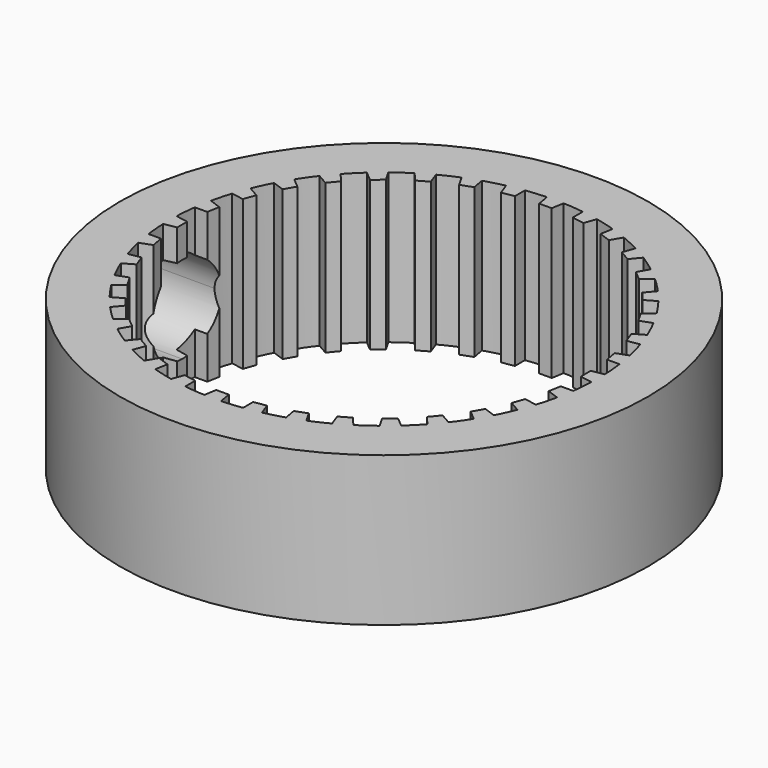
from build123d import *

# Parameters (mm, degrees)
F0_R     = 10.6
F1_DEPTH = 6
F3_DEPTH = 25


with BuildPart() as f1:
    # F0 (on Top) → F1 (new body)
    with BuildSketch(Plane.XY):
        Circle(F0_R)
        with BuildLine():
            ThreePointArc((8.593395, 0.336999), (8.598349, 0.168532), (8.6, 0))
            ThreePointArc((8.6, 0), (8.598349, -0.168532), (8.593395, -0.336999))
            ThreePointArc((8.593395, -0.336999), (8.567274, -0.749539), (8.521361, -1.160348))
            ThreePointArc((8.521361, -1.160348), (8.469347, -1.493374), (8.404322, -1.824106))
            ThreePointArc((8.404322, -1.824106), (8.306962, -2.225844), (8.19041, -2.622439))
            ThreePointArc((8.19041, -2.622439), (8.081357, -2.941373), (7.959889, -3.255789))
            ThreePointArc((7.959889, -3.255789), (7.794247, -3.634517), (7.610597, -4.004848))
            ThreePointArc((7.610597, -4.004848), (7.447818, -4.3), (7.273599, -4.588547))
            ThreePointArc((7.273599, -4.588547), (7.044708, -4.932757), (6.799541, -5.265572))
            ThreePointArc((6.799541, -5.265572), (6.587982, -5.527973), (6.366304, -5.781884))
            ThreePointArc((6.366304, -5.781884), (6.081118, -6.081118), (5.781884, -6.366304))
            ThreePointArc((5.781884, -6.366304), (5.527973, -6.587982), (5.265572, -6.799541))
            ThreePointArc((5.265572, -6.799541), (4.932757, -7.044708), (4.588547, -7.273599))
            ThreePointArc((4.588547, -7.273599), (4.3, -7.447818), (4.004848, -7.610597))
            ThreePointArc((4.004848, -7.610597), (3.634517, -7.794247), (3.255789, -7.959889))
            ThreePointArc((3.255789, -7.959889), (2.941373, -8.081357), (2.622439, -8.19041))
            ThreePointArc((2.622439, -8.19041), (2.225844, -8.306962), (1.824106, -8.404322))
            ThreePointArc((1.824106, -8.404322), (1.493374, -8.469347), (1.160348, -8.521361))
            ThreePointArc((1.160348, -8.521361), (0.749539, -8.567274), (0.336999, -8.593395))
            ThreePointArc((0.336999, -8.593395), (0, -8.6), (-0.336999, -8.593395))
            ThreePointArc((-0.336999, -8.593395), (-0.749539, -8.567274), (-1.160348, -8.521361))
            ThreePointArc((-1.160348, -8.521361), (-1.493374, -8.469347), (-1.824106, -8.404322))
            ThreePointArc((-1.824106, -8.404322), (-2.225844, -8.306962), (-2.622439, -8.19041))
            ThreePointArc((-2.622439, -8.19041), (-2.941373, -8.081357), (-3.255789, -7.959889))
            ThreePointArc((-3.255789, -7.959889), (-3.634517, -7.794247), (-4.004848, -7.610597))
            ThreePointArc((-4.004848, -7.610597), (-4.3, -7.447818), (-4.588547, -7.273599))
            ThreePointArc((-4.588547, -7.273599), (-4.932757, -7.044708), (-5.265572, -6.799541))
            ThreePointArc((-5.265572, -6.799541), (-5.527973, -6.587982), (-5.781884, -6.366304))
            ThreePointArc((-5.781884, -6.366304), (-6.081118, -6.081118), (-6.366304, -5.781884))
            ThreePointArc((-6.366304, -5.781884), (-6.587982, -5.527973), (-6.799541, -5.265572))
            ThreePointArc((-6.799541, -5.265572), (-7.044708, -4.932757), (-7.273599, -4.588547))
            ThreePointArc((-7.273599, -4.588547), (-7.447818, -4.3), (-7.610597, -4.004848))
            ThreePointArc((-7.610597, -4.004848), (-7.794247, -3.634517), (-7.959889, -3.255789))
            ThreePointArc((-7.959889, -3.255789), (-8.081357, -2.941373), (-8.19041, -2.622439))
            ThreePointArc((-8.19041, -2.622439), (-8.306962, -2.225844), (-8.404322, -1.824106))
            ThreePointArc((-8.404322, -1.824106), (-8.469347, -1.493374), (-8.521361, -1.160348))
            ThreePointArc((-8.521361, -1.160348), (-8.567274, -0.749539), (-8.593395, -0.336999))
            ThreePointArc((-8.593395, -0.336999), (-8.6, 0), (-8.593395, 0.336999))
            ThreePointArc((-8.593395, 0.336999), (-8.567274, 0.749539), (-8.521361, 1.160348))
            ThreePointArc((-8.521361, 1.160348), (-8.469347, 1.493374), (-8.404322, 1.824106))
            ThreePointArc((-8.404322, 1.824106), (-8.306962, 2.225844), (-8.19041, 2.622439))
            ThreePointArc((-8.19041, 2.622439), (-8.081357, 2.941373), (-7.959889, 3.255789))
            ThreePointArc((-7.959889, 3.255789), (-7.794247, 3.634517), (-7.610597, 4.004848))
            ThreePointArc((-7.610597, 4.004848), (-7.447818, 4.3), (-7.273599, 4.588547))
            ThreePointArc((-7.273599, 4.588547), (-7.044708, 4.932757), (-6.799541, 5.265572))
            ThreePointArc((-6.799541, 5.265572), (-6.587982, 5.527973), (-6.366304, 5.781884))
            ThreePointArc((-6.366304, 5.781884), (-6.081118, 6.081118), (-5.781884, 6.366304))
            ThreePointArc((-5.781884, 6.366304), (-5.527973, 6.587982), (-5.265572, 6.799541))
            ThreePointArc((-5.265572, 6.799541), (-4.932757, 7.044708), (-4.588547, 7.273599))
            ThreePointArc((-4.588547, 7.273599), (-4.3, 7.447818), (-4.004848, 7.610597))
            ThreePointArc((-4.004848, 7.610597), (-3.634517, 7.794247), (-3.255789, 7.959889))
            ThreePointArc((-3.255789, 7.959889), (-2.941373, 8.081357), (-2.622439, 8.19041))
            ThreePointArc((-2.622439, 8.19041), (-2.225844, 8.306962), (-1.824106, 8.404322))
            ThreePointArc((-1.824106, 8.404322), (-1.493374, 8.469347), (-1.160348, 8.521361))
            ThreePointArc((-1.160348, 8.521361), (-0.749539, 8.567274), (-0.336999, 8.593395))
            ThreePointArc((-0.336999, 8.593395), (0, 8.6), (0.336999, 8.593395))
            ThreePointArc((0.336999, 8.593395), (0.749539, 8.567274), (1.160348, 8.521361))
            ThreePointArc((1.160348, 8.521361), (1.493374, 8.469347), (1.824106, 8.404322))
            ThreePointArc((1.824106, 8.404322), (2.225844, 8.306962), (2.622439, 8.19041))
            ThreePointArc((2.622439, 8.19041), (2.941373, 8.081357), (3.255789, 7.959889))
            ThreePointArc((3.255789, 7.959889), (3.634517, 7.794247), (4.004848, 7.610597))
            ThreePointArc((4.004848, 7.610597), (4.3, 7.447818), (4.588547, 7.273599))
            ThreePointArc((4.588547, 7.273599), (4.932757, 7.044708), (5.265572, 6.799541))
            ThreePointArc((5.265572, 6.799541), (5.527973, 6.587982), (5.781884, 6.366304))
            ThreePointArc((5.781884, 6.366304), (6.081118, 6.081118), (6.366304, 5.781884))
            ThreePointArc((6.366304, 5.781884), (6.587982, 5.527973), (6.799541, 5.265572))
            ThreePointArc((6.799541, 5.265572), (7.044708, 4.932757), (7.273599, 4.588547))
            ThreePointArc((7.273599, 4.588547), (7.447818, 4.3), (7.610597, 4.004848))
            ThreePointArc((7.610597, 4.004848), (7.794247, 3.634517), (7.959889, 3.255789))
            ThreePointArc((7.959889, 3.255789), (8.081357, 2.941373), (8.19041, 2.622439))
            ThreePointArc((8.19041, 2.622439), (8.306962, 2.225844), (8.404322, 1.824106))
            ThreePointArc((8.404322, 1.824106), (8.469347, 1.493374), (8.521361, 1.160348))
            ThreePointArc((8.521361, 1.160348), (8.567274, 0.749539), (8.593395, 0.336999))
        make_face(mode=Mode.SUBTRACT)
        with BuildLine():
            Line((-3.833494, 7.139806), (-4.004848, 7.610597))
            ThreePointArc((-4.004848, 7.610597), (-4.3, 7.447818), (-4.588547, 7.273599))
            Line((-4.588547, 7.273599), (-4.266506, 6.889806))
            Line((-4.266506, 6.889806), (-3.833494, 7.139806))
        make_face()
        with BuildLine():
            Line((-2.53544, 7.697015), (-2.622439, 8.19041))
            ThreePointArc((-2.622439, 8.19041), (-2.941373, 8.081357), (-3.255789, 7.959889))
            Line((-3.255789, 7.959889), (-3.005286, 7.526005))
            Line((-3.005286, 7.526005), (-2.53544, 7.697015))
        make_face()
        with BuildLine():
            Line((-1.160348, 8.020355), (-1.160348, 8.521361))
            ThreePointArc((-1.160348, 8.521361), (-1.493374, 8.469347), (-1.824106, 8.404322))
            Line((-1.824106, 8.404322), (-1.652752, 7.933531))
            Line((-1.652752, 7.933531), (-1.160348, 8.020355))
        make_face()
        with BuildLine():
            Line((0.25, 8.1), (0.336999, 8.593395))
            ThreePointArc((0.336999, 8.593395), (0, 8.6), (-0.336999, 8.593395))
            Line((-0.336999, 8.593395), (-0.25, 8.1))
            Line((-0.25, 8.1), (0.25, 8.1))
        make_face()
        with BuildLine():
            Line((1.652752, 7.933531), (1.824106, 8.404322))
            ThreePointArc((1.824106, 8.404322), (1.493374, 8.469347), (1.160348, 8.521361))
            Line((1.160348, 8.521361), (1.160348, 8.020355))
            Line((1.160348, 8.020355), (1.652752, 7.933531))
        make_face()
        with BuildLine():
            Line((3.005286, 7.526005), (3.255789, 7.959889))
            ThreePointArc((3.255789, 7.959889), (2.941373, 8.081357), (2.622439, 8.19041))
            Line((2.622439, 8.19041), (2.53544, 7.697015))
            Line((2.53544, 7.697015), (3.005286, 7.526005))
        make_face()
        with BuildLine():
            Line((4.266506, 6.889806), (4.588547, 7.273599))
            ThreePointArc((4.588547, 7.273599), (4.3, 7.447818), (4.004848, 7.610597))
            Line((4.004848, 7.610597), (3.833494, 7.139806))
            Line((3.833494, 7.139806), (4.266506, 6.889806))
        make_face()
        with BuildLine():
            Line((5.398091, 6.044263), (5.781884, 6.366304))
            ThreePointArc((5.781884, 6.366304), (5.527973, 6.587982), (5.265572, 6.799541))
            Line((5.265572, 6.799541), (5.015069, 6.365657))
            Line((5.015069, 6.365657), (5.398091, 6.044263))
        make_face()
        with BuildLine():
            Line((6.365657, 5.015069), (6.799541, 5.265572))
            ThreePointArc((6.799541, 5.265572), (6.587982, 5.527973), (6.366304, 5.781884))
            Line((6.366304, 5.781884), (6.044263, 5.398091))
            Line((6.044263, 5.398091), (6.365657, 5.015069))
        make_face()
        with BuildLine():
            Line((7.139806, 3.833494), (7.610597, 4.004848))
            ThreePointArc((7.610597, 4.004848), (7.447818, 4.3), (7.273599, 4.588547))
            Line((7.273599, 4.588547), (6.889806, 4.266506))
            Line((6.889806, 4.266506), (7.139806, 3.833494))
        make_face()
        with BuildLine():
            Line((7.697015, 2.53544), (8.19041, 2.622439))
            ThreePointArc((8.19041, 2.622439), (8.081357, 2.941373), (7.959889, 3.255789))
            Line((7.959889, 3.255789), (7.526005, 3.005286))
            Line((7.526005, 3.005286), (7.697015, 2.53544))
        make_face()
        with BuildLine():
            Line((8.020355, 1.160348), (8.521361, 1.160348))
            ThreePointArc((8.521361, 1.160348), (8.469347, 1.493374), (8.404322, 1.824106))
            Line((8.404322, 1.824106), (7.933531, 1.652752))
            Line((7.933531, 1.652752), (8.020355, 1.160348))
        make_face()
        with BuildLine():
            ThreePointArc((8.593395, -0.336999), (8.598349, -0.168532), (8.6, 0))
            ThreePointArc((8.6, 0), (8.598349, 0.168532), (8.593395, 0.336999))
            Line((8.593395, 0.336999), (8.1, 0.25))
            Line((8.1, 0.25), (8.1, -0.25))
            Line((8.1, -0.25), (8.593395, -0.336999))
        make_face()
        with BuildLine():
            ThreePointArc((8.404322, -1.824106), (8.469347, -1.493374), (8.521361, -1.160348))
            Line((8.521361, -1.160348), (8.020355, -1.160348))
            Line((8.020355, -1.160348), (7.933531, -1.652752))
            Line((7.933531, -1.652752), (8.404322, -1.824106))
        make_face()
        with BuildLine():
            ThreePointArc((7.959889, -3.255789), (8.081357, -2.941373), (8.19041, -2.622439))
            Line((8.19041, -2.622439), (7.697015, -2.53544))
            Line((7.697015, -2.53544), (7.526005, -3.005286))
            Line((7.526005, -3.005286), (7.959889, -3.255789))
        make_face()
        with BuildLine():
            ThreePointArc((7.273599, -4.588547), (7.447818, -4.3), (7.610597, -4.004848))
            Line((7.610597, -4.004848), (7.139806, -3.833494))
            Line((7.139806, -3.833494), (6.889806, -4.266506))
            Line((6.889806, -4.266506), (7.273599, -4.588547))
        make_face()
        with BuildLine():
            ThreePointArc((-7.610597, -4.004848), (-7.447818, -4.3), (-7.273599, -4.588547))
            Line((-7.273599, -4.588547), (-6.889806, -4.266506))
            Line((-6.889806, -4.266506), (-7.139806, -3.833494))
            Line((-7.139806, -3.833494), (-7.610597, -4.004848))
        make_face()
        with BuildLine():
            ThreePointArc((-8.19041, -2.622439), (-8.081357, -2.941373), (-7.959889, -3.255789))
            Line((-7.959889, -3.255789), (-7.526005, -3.005286))
            Line((-7.526005, -3.005286), (-7.697015, -2.53544))
            Line((-7.697015, -2.53544), (-8.19041, -2.622439))
        make_face()
        with BuildLine():
            ThreePointArc((-8.521361, -1.160348), (-8.469347, -1.493374), (-8.404322, -1.824106))
            Line((-8.404322, -1.824106), (-7.933531, -1.652752))
            Line((-7.933531, -1.652752), (-8.020355, -1.160348))
            Line((-8.020355, -1.160348), (-8.521361, -1.160348))
        make_face()
        with BuildLine():
            Line((-8.1, 0.25), (-8.593395, 0.336999))
            ThreePointArc((-8.593395, 0.336999), (-8.6, 0), (-8.593395, -0.336999))
            Line((-8.593395, -0.336999), (-8.1, -0.25))
            Line((-8.1, -0.25), (-8.1, 0.25))
        make_face()
        with BuildLine():
            Line((-7.933531, 1.652752), (-8.404322, 1.824106))
            ThreePointArc((-8.404322, 1.824106), (-8.469347, 1.493374), (-8.521361, 1.160348))
            Line((-8.521361, 1.160348), (-8.020355, 1.160348))
            Line((-8.020355, 1.160348), (-7.933531, 1.652752))
        make_face()
        with BuildLine():
            Line((-7.526005, 3.005286), (-7.959889, 3.255789))
            ThreePointArc((-7.959889, 3.255789), (-8.081357, 2.941373), (-8.19041, 2.622439))
            Line((-8.19041, 2.622439), (-7.697015, 2.53544))
            Line((-7.697015, 2.53544), (-7.526005, 3.005286))
        make_face()
        with BuildLine():
            Line((-6.889806, 4.266506), (-7.273599, 4.588547))
            ThreePointArc((-7.273599, 4.588547), (-7.447818, 4.3), (-7.610597, 4.004848))
            Line((-7.610597, 4.004848), (-7.139806, 3.833494))
            Line((-7.139806, 3.833494), (-6.889806, 4.266506))
        make_face()
        with BuildLine():
            Line((-6.044263, 5.398091), (-6.366304, 5.781884))
            ThreePointArc((-6.366304, 5.781884), (-6.587982, 5.527973), (-6.799541, 5.265572))
            Line((-6.799541, 5.265572), (-6.365657, 5.015069))
            Line((-6.365657, 5.015069), (-6.044263, 5.398091))
        make_face()
        with BuildLine():
            Line((-5.015069, 6.365657), (-5.265572, 6.799541))
            ThreePointArc((-5.265572, 6.799541), (-5.527973, 6.587982), (-5.781884, 6.366304))
            Line((-5.781884, 6.366304), (-5.398091, 6.044263))
            Line((-5.398091, 6.044263), (-5.015069, 6.365657))
        make_face()
        with BuildLine():
            ThreePointArc((5.265572, -6.799541), (5.527973, -6.587982), (5.781884, -6.366304))
            Line((5.781884, -6.366304), (5.398091, -6.044263))
            Line((5.398091, -6.044263), (5.015069, -6.365657))
            Line((5.015069, -6.365657), (5.265572, -6.799541))
        make_face()
        with BuildLine():
            ThreePointArc((4.004848, -7.610597), (4.3, -7.447818), (4.588547, -7.273599))
            Line((4.588547, -7.273599), (4.266506, -6.889806))
            Line((4.266506, -6.889806), (3.833494, -7.139806))
            Line((3.833494, -7.139806), (4.004848, -7.610597))
        make_face()
        with BuildLine():
            ThreePointArc((2.622439, -8.19041), (2.941373, -8.081357), (3.255789, -7.959889))
            Line((3.255789, -7.959889), (3.005286, -7.526005))
            Line((3.005286, -7.526005), (2.53544, -7.697015))
            Line((2.53544, -7.697015), (2.622439, -8.19041))
        make_face()
        with BuildLine():
            ThreePointArc((1.160348, -8.521361), (1.493374, -8.469347), (1.824106, -8.404322))
            Line((1.824106, -8.404322), (1.652752, -7.933531))
            Line((1.652752, -7.933531), (1.160348, -8.020355))
            Line((1.160348, -8.020355), (1.160348, -8.521361))
        make_face()
        with BuildLine():
            ThreePointArc((-0.336999, -8.593395), (0, -8.6), (0.336999, -8.593395))
            Line((0.336999, -8.593395), (0.25, -8.1))
            Line((0.25, -8.1), (-0.25, -8.1))
            Line((-0.25, -8.1), (-0.336999, -8.593395))
        make_face()
        with BuildLine():
            ThreePointArc((-1.824106, -8.404322), (-1.493374, -8.469347), (-1.160348, -8.521361))
            Line((-1.160348, -8.521361), (-1.160348, -8.020355))
            Line((-1.160348, -8.020355), (-1.652752, -7.933531))
            Line((-1.652752, -7.933531), (-1.824106, -8.404322))
        make_face()
        with BuildLine():
            ThreePointArc((-3.255789, -7.959889), (-2.941373, -8.081357), (-2.622439, -8.19041))
            Line((-2.622439, -8.19041), (-2.53544, -7.697015))
            Line((-2.53544, -7.697015), (-3.005286, -7.526005))
            Line((-3.005286, -7.526005), (-3.255789, -7.959889))
        make_face()
        with BuildLine():
            ThreePointArc((-4.588547, -7.273599), (-4.3, -7.447818), (-4.004848, -7.610597))
            Line((-4.004848, -7.610597), (-3.833494, -7.139806))
            Line((-3.833494, -7.139806), (-4.266506, -6.889806))
            Line((-4.266506, -6.889806), (-4.588547, -7.273599))
        make_face()
        with BuildLine():
            ThreePointArc((-5.781884, -6.366304), (-5.527973, -6.587982), (-5.265572, -6.799541))
            Line((-5.265572, -6.799541), (-5.015069, -6.365657))
            Line((-5.015069, -6.365657), (-5.398091, -6.044263))
            Line((-5.398091, -6.044263), (-5.781884, -6.366304))
        make_face()
        with BuildLine():
            ThreePointArc((-6.799541, -5.265572), (-6.587982, -5.527973), (-6.366304, -5.781884))
            Line((-6.366304, -5.781884), (-6.044263, -5.398091))
            Line((-6.044263, -5.398091), (-6.365657, -5.015069))
            Line((-6.365657, -5.015069), (-6.799541, -5.265572))
        make_face()
        with BuildLine():
            ThreePointArc((6.366304, -5.781884), (6.587982, -5.527973), (6.799541, -5.265572))
            Line((6.799541, -5.265572), (6.365657, -5.015069))
            Line((6.365657, -5.015069), (6.044263, -5.398091))
            Line((6.044263, -5.398091), (6.366304, -5.781884))
        make_face()
    extrude(amount=F1_DEPTH)

    # F2 (on Right) → F3 (cut)
    with BuildSketch(Plane.YZ):
        with BuildLine():
            ThreePointArc((0, 1.25), (1.237437, 1.762563), (1.75, 3))
            ThreePointArc((1.75, 3), (-1.237437, 4.237437), (0, 1.25))
        make_face()
    extrude(amount=-F3_DEPTH, mode=Mode.SUBTRACT)


solid = f1.part
